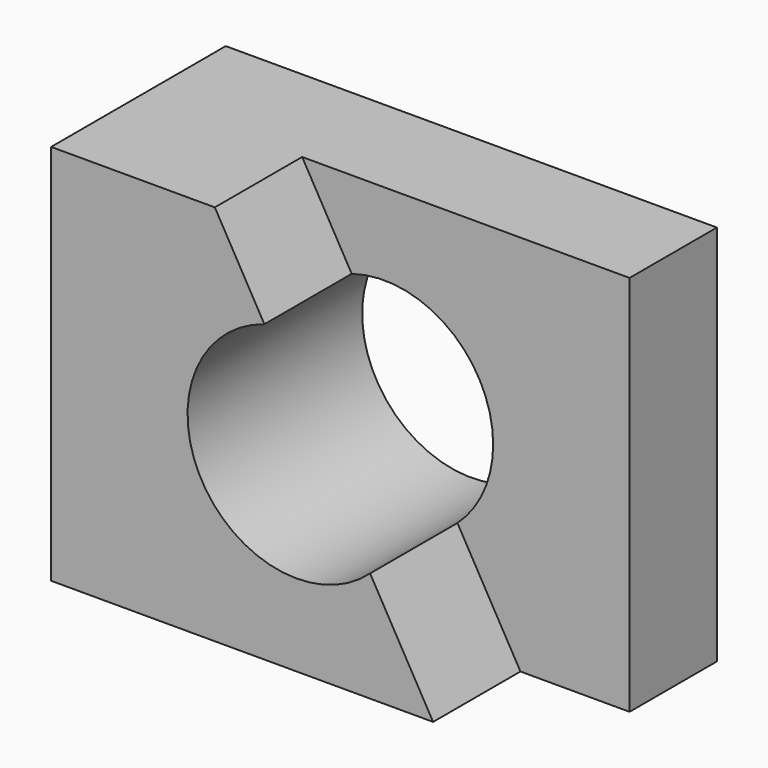
from build123d import *

# Parameters (mm, degrees)
F0_R     = 25.4
F1_DEPTH = 50.8
F3_DEPTH = 25.4


with BuildPart() as f1:
    # F0 (on Front) → F1 (new body)
    with BuildSketch(Plane.XZ):
        Polygon((55.8569293857, 44.248854147), (-58.4430706143, 44.248854147), (-58.4430706143, -0.201145853), (-58.4430706143, -44.651145853), (55.8569293857, -44.651145853), align=None)
        with Locations((-1.2930706143, -0.201145853)):
            Circle(F0_R, mode=Mode.SUBTRACT)
    extrude(amount=F1_DEPTH)

    # F2 (on face) → F3 (cut)
    with BuildSketch(Plane.XZ.offset(50.8)):
        with BuildLine():
            Line((55.8569293857, 44.248854147), (-20.3430706143, 44.248854147))
            Line((-20.3430706143, 44.248854147), (-8.8076225055, 24.0618199566))
            ThreePointArc((-8.8076225055, 24.0618199566), (13.7782661207, 20.2442646104), (24.1069293857, -0.201145853))
            ThreePointArc((24.1069293857, -0.201145853), (21.9362783901, -10.4752562684), (15.7953274307, -18.9933424318))
            Line((15.7953274307, -18.9933424318), (30.4569293857, -44.651145853))
            Line((30.4569293857, -44.651145853), (55.8569293857, -44.651145853))
            Line((55.8569293857, -44.651145853), (55.8569293857, 44.248854147))
        make_face()
    extrude(amount=-F3_DEPTH, mode=Mode.SUBTRACT)


solid = f1.part
